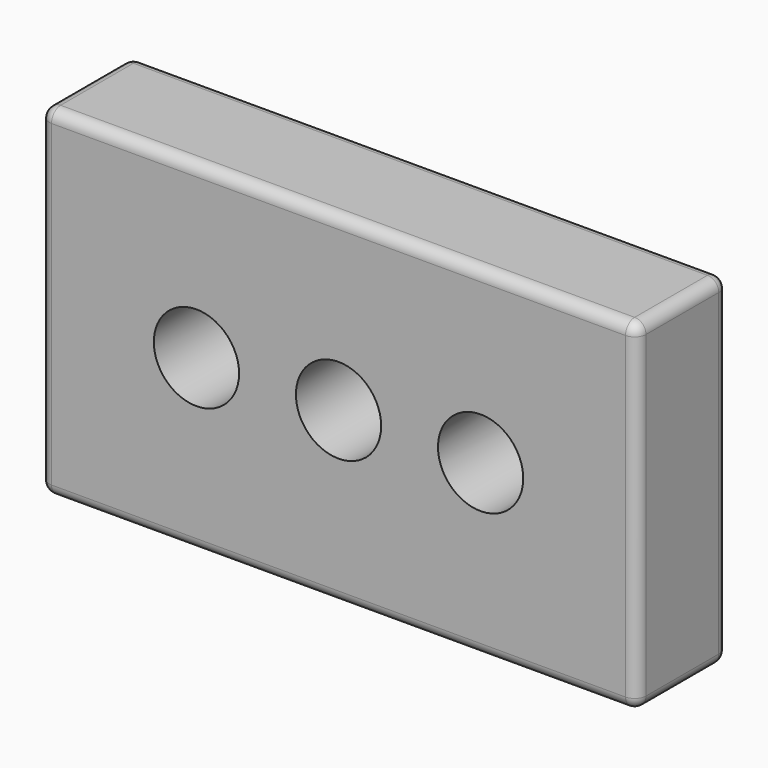
from build123d import *

# Parameters (mm, degrees)
F0_W     = 266.7
F0_H     = 152.4
F0_R     = 19.05
F1_DEPTH = 50.8
F2_R     = 5.08


with BuildPart() as f1:
    # F0 (on Front) → F1 (new body)
    with BuildSketch(Plane.XZ):
        Rectangle(F0_W, F0_H)
        with Locations((-63.5, 0)):
            Circle(F0_R, mode=Mode.SUBTRACT)
        with BuildLine():
            ThreePointArc((-19.05, 0), (0, 19.05), (19.05, 0))
            ThreePointArc((19.05, 0), (0, -19.05), (-19.05, 0))
        make_face(mode=Mode.SUBTRACT)
        with BuildLine():
            ThreePointArc((82.55, 0), (63.5, -19.05), (44.45, 0))
            ThreePointArc((44.45, 0), (63.5, 19.05), (82.55, 0))
        make_face(mode=Mode.SUBTRACT)
        with Locations((-63.5, 0)):
            Circle(F0_R)
        with BuildLine():
            ThreePointArc((82.55, 0), (63.5, 19.05), (44.45, 0))
            ThreePointArc((44.45, 0), (63.5, -19.05), (82.55, 0))
        make_face()
        Rectangle(F0_W, F0_H)
        with Locations((-63.5, 0)):
            Circle(F0_R, mode=Mode.SUBTRACT)
        with BuildLine():
            ThreePointArc((-19.05, 0), (0, 19.05), (19.05, 0))
            ThreePointArc((19.05, 0), (0, -19.05), (-19.05, 0))
        make_face(mode=Mode.SUBTRACT)
        with BuildLine():
            ThreePointArc((82.55, 0), (63.5, -19.05), (44.45, 0))
            ThreePointArc((44.45, 0), (63.5, 19.05), (82.55, 0))
        make_face(mode=Mode.SUBTRACT)
    extrude(amount=F1_DEPTH)

    # F2
    f2_edges = [f1.edges().sort_by_distance(p)[0] for p in [
        (-133.35, -25.4, -76.2),
        (133.35, -25.4, -76.2),
        (0, 0, -76.2),
        (0, -50.8, -76.2),
        (133.35, -25.4, 76.2),
        (-133.35, -25.4, 76.2),
        (0, 0, 76.2),
        (0, -50.8, 76.2),
        (-133.35, 0, 0),
        (-133.35, -50.8, 0),
        (133.35, 0, 0),
        (133.35, -50.8, 0),
    ]]
    fillet(f2_edges, radius=F2_R)


solid = f1.part
